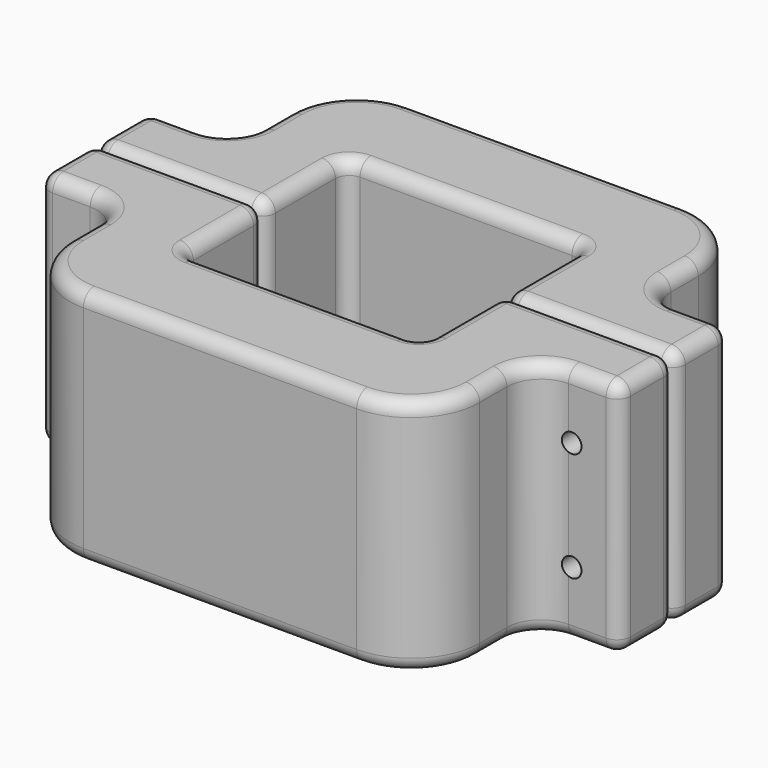
from build123d import *

# Parameters (mm, degrees)
F1_DEPTH = 88.9
F2_R     = 12.7
F3_R     = 25.4
F4_R     = 5.08
F6_D     = 7.1374


with BuildPart() as f1:
    # F0 (on Top) → F1 (new body)
    with BuildSketch(Plane.XY):
        Polygon((76.2, 0.205619), (76.2, 51.005619), (-76.2, 51.005619), (-76.2, 0.205619), (-107.95, 0.205619), (-107.95, -25.194381), (-44.45, -25.194381), (-44.45, 12.905619), (44.45, 12.905619), (44.45, -25.194381), (107.95, -25.194381), (107.95, 0.205619), align=None)
    extrude(amount=F1_DEPTH)

    # F2
    f2_edges = [f1.edges().sort_by_distance(p)[0] for p in [
        (-76.2, 0.205619, 44.45),
        (76.2, 0.205619, 44.45),
    ]]
    fillet(f2_edges, radius=F2_R)

    # F3
    f3_edges = [f1.edges().sort_by_distance(p)[0] for p in [
        (76.2, 51.005619, 44.45),
        (-76.2, 51.005619, 44.45),
    ]]
    fillet(f3_edges, radius=F3_R)

    # F4
    f4_edges = [f1.edges().sort_by_distance(p)[0] for p in [
        (44.45, 12.905619, 44.45),
        (-44.45, 12.905619, 44.45),
        (-107.95, 0.205619, 44.45),
        (-107.95, -25.194381, 44.45),
        (-107.95, -12.494381, 0),
        (-107.95, -12.494381, 88.9),
        (107.95, -25.194381, 44.45),
        (107.95, 0.205619, 44.45),
        (107.95, -12.494381, 0),
        (107.95, -12.494381, 88.9),
        (76.2, 19.255619, 88.9),
        (68.760512, 43.566131, 88.9),
        (79.919744, 3.925363, 88.9),
        (0, 51.005619, 88.9),
        (98.425, 0.205619, 88.9),
        (-68.760512, 43.566131, 88.9),
        (-76.2, 19.255619, 88.9),
        (76.2, -25.194381, 88.9),
        (-79.919744, 3.925363, 88.9),
        (44.45, -6.144381, 88.9),
        (-98.425, 0.205619, 88.9),
        (0, 12.905619, 88.9),
        (-44.45, -6.144381, 88.9),
        (-76.2, -25.194381, 88.9),
        (76.2, 19.255619, 0),
        (68.760512, 43.566131, 0),
        (79.919744, 3.925363, 0),
        (0, 51.005619, 0),
        (98.425, 0.205619, 0),
        (-68.760512, 43.566131, 0),
        (-76.2, 19.255619, 0),
        (76.2, -25.194381, 0),
        (-79.919744, 3.925363, 0),
        (44.45, -6.144381, 0),
        (-98.425, 0.205619, 0),
        (0, 12.905619, 0),
        (-44.45, -6.144381, 0),
        (-76.2, -25.194381, 0),
        (-44.45, -25.194381, 44.45),
        (44.45, -25.194381, 44.45),
    ]]
    fillet(f4_edges, radius=F4_R)

    # F6 (through all)
    with Locations(Plane.XZ.offset(25.194381)):
        with Locations((-90.17, 64.77), (-90.17, 24.13), (90.17, 64.77), (90.17, 24.13)):
            Hole(F6_D / 2)


with BuildPart() as f7_1:
    # F7: instance of F1
    add(f1.part.mirror(Plane(origin=(-75.928667, -25.194381, 44.45), x_dir=(1, 0, 0), z_dir=(0, -1, 0))))


solid = Compound([f1.part, f7_1.part])
